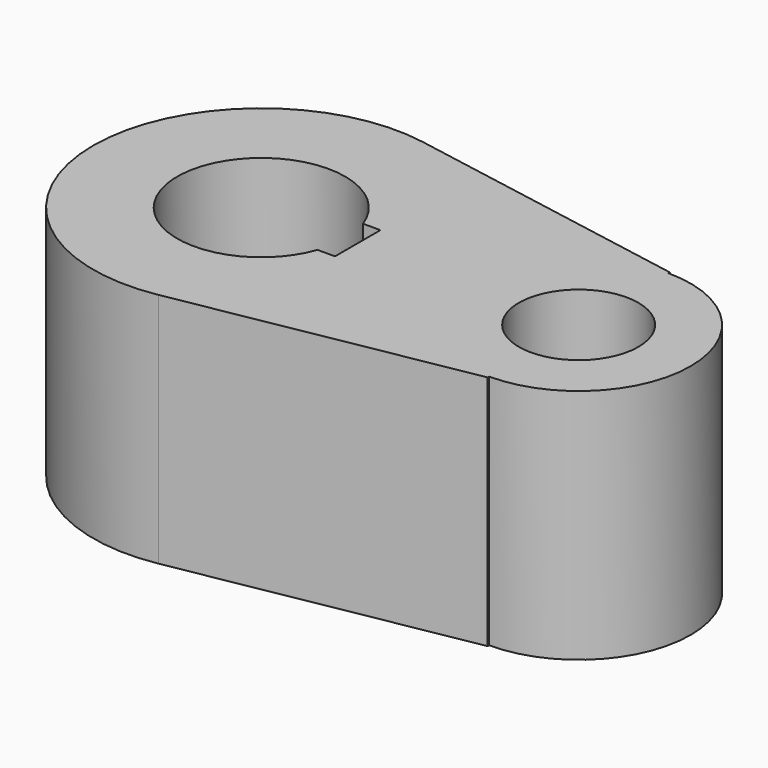
from build123d import *

# Parameters (mm, degrees)
F0_R     = 10.16
F1_DEPTH = 40.2336


with BuildPart() as f1:
    # F0 (on Top) → F1 (new body)
    with BuildSketch(Plane.XY):
        with BuildLine():
            ThreePointArc((5.042647, -28.126541), (21.916025, -18.336262), (28.575, 0))
            ThreePointArc((28.575, 0), (21.916025, 18.336262), (5.042647, 28.126542))
            ThreePointArc((5.042647, 28.126542), (-28.575, 0), (5.042647, -28.126541))
        make_face()
        with BuildLine():
            ThreePointArc((13.447765, -4.826), (-14.2875, 0), (13.447765, 4.826))
            Line((13.447765, 4.826), (16.4084, 4.826))
            Line((16.4084, 4.826), (16.4084, -4.826))
            Line((16.4084, -4.826), (13.447765, -4.826))
        make_face(mode=Mode.SUBTRACT)
        with BuildLine():
            ThreePointArc((5.042647, 28.126542), (21.916025, 18.336262), (28.575, 0))
            ThreePointArc((28.575, 0), (21.916025, -18.336262), (5.042647, -28.126541))
            Line((5.042647, -28.126541), (53.991795, -19.350728))
            Line((53.991795, -19.350728), (53.991795, -19.049993))
            ThreePointArc((53.991795, -19.049993), (73.025, 0), (53.991795, 19.049993))
            Line((53.991795, 19.049993), (53.991795, 19.350728))
            Line((53.991795, 19.350728), (5.042647, 28.126542))
        make_face()
        with Locations((53.975, 0)):
            Circle(F0_R, mode=Mode.SUBTRACT)
    extrude(amount=F1_DEPTH)


solid = f1.part
